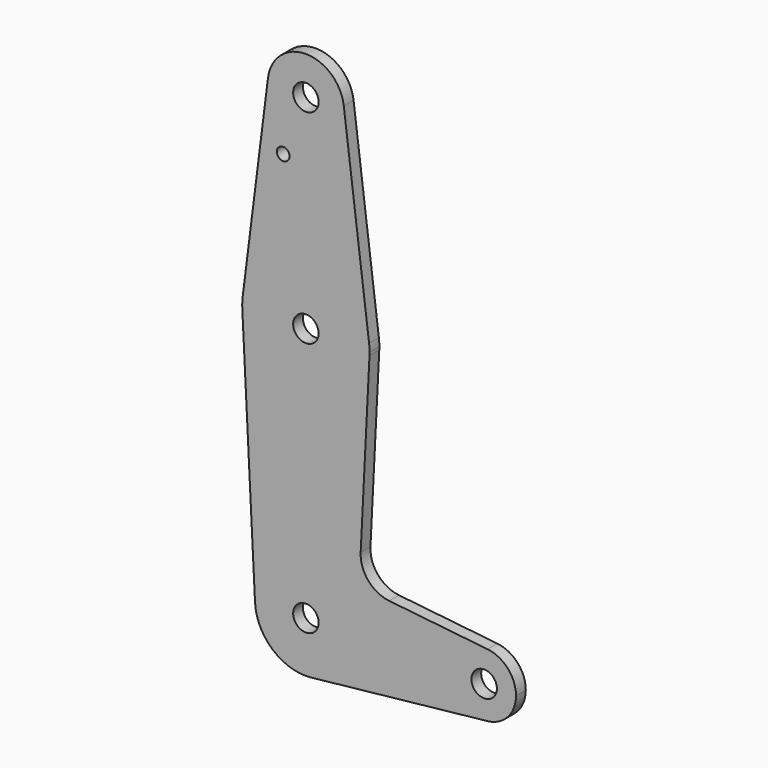
from build123d import *

# Parameters (mm, degrees)
F0_R     = 1.5875
F0_R_2   = 3.175
F1_DEPTH = 3.048


with BuildPart() as f1:
    # F0 (on Front) → F1 (new body)
    with BuildSketch(Plane.XZ):
        with BuildLine():
            Line((-9.450293, 115.490625), (-15.750488, 65.484375))
            ThreePointArc((-15.750488, 65.484375), (0, 79.375), (15.750488, 65.484375))
            Line((15.750488, 65.484375), (9.450293, 115.490625))
            ThreePointArc((9.450293, 115.490625), (9.506305, 114.896483), (9.525, 114.3))
            ThreePointArc((9.525, 114.3), (-0.596483, 104.793695), (-9.450293, 115.490625))
        make_face()
        with Locations((-5.664, 100.0252)):
            Circle(F0_R, mode=Mode.SUBTRACT)
        with BuildLine():
            ThreePointArc((-15.750488, 65.484375), (-15.863748, 64.097608), (-15.855144, 62.70625))
            ThreePointArc((-15.855144, 62.70625), (0, 47.625), (15.855144, 62.70625))
            ThreePointArc((15.855144, 62.70625), (15.870035, 63.103001), (15.875, 63.5))
            ThreePointArc((15.875, 63.5), (15.843841, 64.494139), (15.750488, 65.484375))
            ThreePointArc((15.750488, 65.484375), (0, 79.375), (-15.750488, 65.484375))
        make_face()
        with Locations((0, 63.5)):
            Circle(F0_R_2, mode=Mode.SUBTRACT)
        with BuildLine():
            ThreePointArc((-12.684115, -0.635), (-0.317599, 12.696028), (12.7, 0))
            ThreePointArc((12.7, 0), (9.449102, -8.485544), (1.360714, -12.626894))
            Line((1.360714, -12.626894), (45.300446, -7.891809))
            ThreePointArc((45.300446, -7.891809), (36.5125, 0), (45.300446, 7.891809))
            Line((45.300446, 7.891809), (20.747516, 10.537711))
            ThreePointArc((20.747516, 10.537711), (15.553195, 13.279782), (13.659067, 18.839656))
            Line((13.659067, 18.839656), (15.855144, 62.70625))
            ThreePointArc((15.855144, 62.70625), (0, 47.625), (-15.855144, 62.70625))
            Line((-15.855144, 62.70625), (-12.684115, -0.635))
        make_face()
        with BuildLine():
            ThreePointArc((1.360714, -12.626894), (9.449102, -8.485544), (12.7, 0))
            ThreePointArc((12.7, 0), (-0.317599, 12.696028), (-12.684115, -0.635))
            ThreePointArc((-12.684115, -0.635), (-8.246589, -9.658352), (1.360714, -12.626894))
        make_face()
        Circle(F0_R_2, mode=Mode.SUBTRACT)
        with BuildLine():
            ThreePointArc((45.300446, 7.891809), (36.5125, 0), (45.300446, -7.891809))
            ThreePointArc((45.300446, -7.891809), (50.355689, -5.303465), (52.3875, 0))
            ThreePointArc((52.3875, 0), (50.355689, 5.303465), (45.300446, 7.891809))
        make_face()
        with Locations((44.45, 0)):
            Circle(F0_R_2, mode=Mode.SUBTRACT)
        with BuildLine():
            ThreePointArc((9.450293, 115.490625), (0, 123.825), (-9.450293, 115.490625))
            ThreePointArc((-9.450293, 115.490625), (-0.596483, 104.793695), (9.525, 114.3))
            ThreePointArc((9.525, 114.3), (9.506305, 114.896483), (9.450293, 115.490625))
        make_face()
        with Locations((0, 114.3)):
            Circle(F0_R_2, mode=Mode.SUBTRACT)
    extrude(amount=F1_DEPTH)


solid = f1.part
